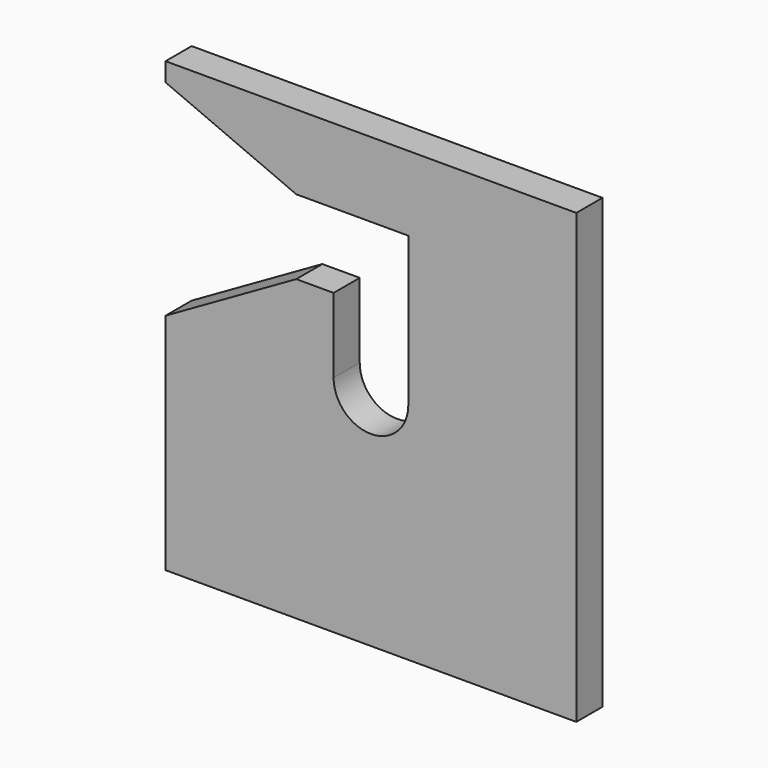
from build123d import *

# Parameters (mm, degrees)
F1_DEPTH = 22.225


with BuildPart() as f1:
    # F0 (on Front) → F1 (new body)
    with BuildSketch(Plane.XZ):
        with BuildLine():
            Line((139.7, -152.4), (139.7, 152.4))
            Line((139.7, 152.4), (-139.7, 152.4))
            Line((-139.7, 152.4), (-139.7, 139.7))
            Line((-139.7, 139.7), (-50.8, 101.6))
            Line((-50.8, 101.6), (-25.4, 101.6))
            Line((-25.4, 101.6), (25.4, 101.6))
            Line((25.4, 101.6), (25.4, 50.8))
            Line((25.4, 50.8), (25.4, 0))
            ThreePointArc((25.4, 0), (0, -25.4), (-25.4, 0))
            Line((-25.4, 0), (-25.4, 50.8))
            Line((-25.4, 50.8), (-50.8, 50.8))
            Line((-50.8, 50.8), (-139.7, 0))
            Line((-139.7, 0), (-139.7, -152.4))
            Line((-139.7, -152.4), (139.7, -152.4))
        make_face()
    extrude(amount=F1_DEPTH)


solid = f1.part
